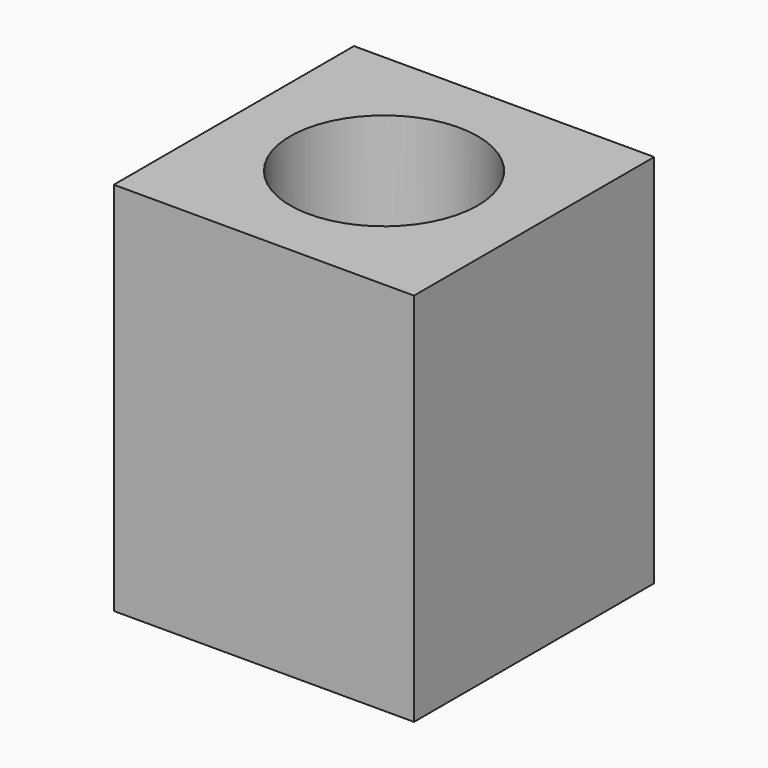
from build123d import *

# Parameters (mm, degrees)
F0_W           = 25.4
F0_H           = 31.75
F1_DEPTH       = 25.4
F3_D           = 12.7
F3_CBORE_D     = 15.875
F3_CBORE_DEPTH = 20.32


with BuildPart() as f1:
    # F0 (on Front) → F1 (new body)
    with BuildSketch(Plane.XZ):
        Rectangle(F0_W, F0_H)
    extrude(amount=F1_DEPTH)

    # F3 (through all)
    with Locations(Plane.XY.offset(15.875)):
        with Locations((0, -12.7)):
            CounterBoreHole(F3_D / 2, F3_CBORE_D / 2, F3_CBORE_DEPTH)


solid = f1.part
